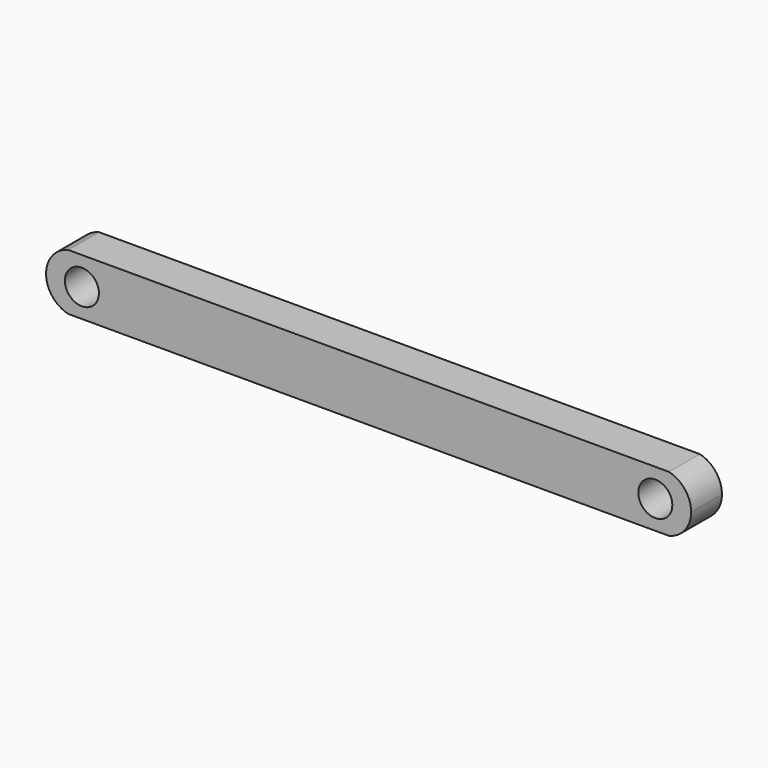
from build123d import *

# Parameters (mm, degrees)
F1_DEPTH = 5.6642


with BuildPart() as f1:
    # F0 (on Front) → F1 (new body)
    with BuildSketch(Plane.XZ):
        with BuildLine():
            Line((-39.6875, 0), (0, 0))
            Line((0, 0), (0, 4.145858))
            Line((0, 4.145858), (-42.1894, 4.145858))
            Line((-42.1894, 4.145858), (-44.198703, 4.145858))
            ThreePointArc((-44.198703, 4.145858), (-46.546897, 2.637402), (-47.4599, 0))
            Line((-47.4599, 0), (-44.6913, 0))
            ThreePointArc((-44.6913, 0), (-42.1894, 2.5019), (-39.6875, 0))
        make_face()
        with BuildLine():
            Line((0, -4.145858), (0, 0))
            Line((0, 0), (-39.6875, 0))
            ThreePointArc((-39.6875, 0), (-42.1894, -2.5019), (-44.6913, 0))
            Line((-44.6913, 0), (-47.4599, 0))
            ThreePointArc((-47.4599, 0), (-46.546897, -2.637402), (-44.198703, -4.145858))
            Line((-44.198703, -4.145858), (-42.1894, -4.145858))
            Line((-42.1894, -4.145858), (0, -4.145858))
        make_face()
        with BuildLine():
            ThreePointArc((39.6875, 0), (42.1894, 2.5019), (44.6913, 0))
            Line((44.6913, 0), (47.4599, 0))
            ThreePointArc((47.4599, 0), (46.546897, 2.637402), (44.198703, 4.145858))
            Line((44.198703, 4.145858), (42.1894, 4.145858))
            Line((42.1894, 4.145858), (0, 4.145858))
            Line((0, 4.145858), (0, 0))
            Line((0, 0), (39.6875, 0))
        make_face()
        with BuildLine():
            Line((47.4599, 0), (44.6913, 0))
            ThreePointArc((44.6913, 0), (42.1894, -2.5019), (39.6875, 0))
            Line((39.6875, 0), (0, 0))
            Line((0, 0), (0, -4.145858))
            Line((0, -4.145858), (42.1894, -4.145858))
            Line((42.1894, -4.145858), (44.198703, -4.145858))
            ThreePointArc((44.198703, -4.145858), (46.546897, -2.637402), (47.4599, 0))
        make_face()
    extrude(amount=F1_DEPTH)


solid = f1.part
